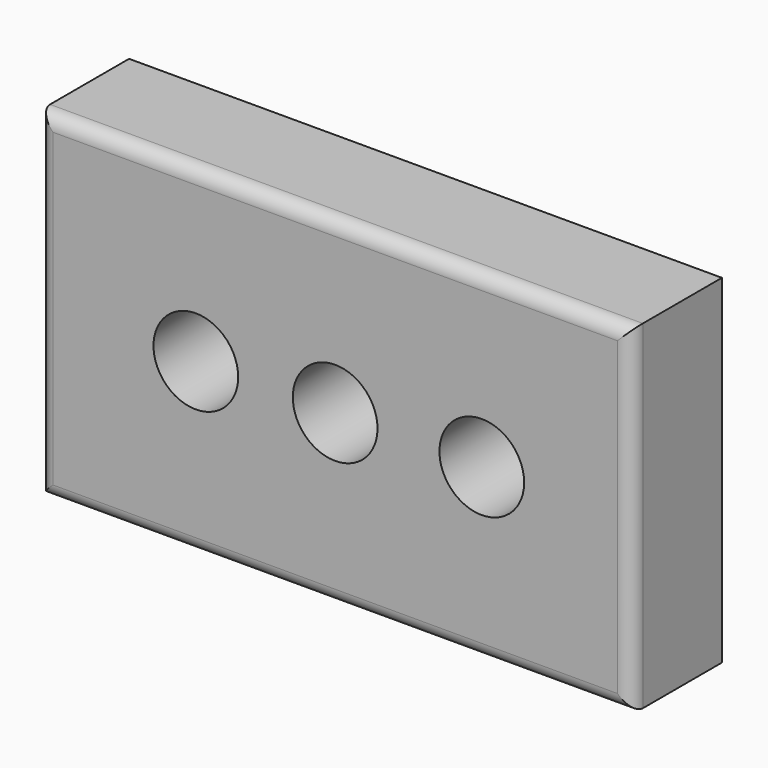
from build123d import *

# Parameters (mm, degrees)
F0_W     = 266.7
F0_H     = 152.4
F1_DEPTH = 50.8
F2_R     = 19.05
F3_DEPTH = 50.8
F5_R     = 19.05
F6_DEPTH = 50.8
F7_R     = 6.35


with BuildPart() as f1:
    # F0 (on Front) → F1 (new body)
    with BuildSketch(Plane.XZ):
        Rectangle(F0_W, F0_H)
    extrude(amount=F1_DEPTH)

    # F2 (on face) → F3 (cut)
    with BuildSketch(Plane.XZ.offset(50.8)):
        Circle(F2_R)
    extrude(amount=-F3_DEPTH, mode=Mode.SUBTRACT)

    # F5 (on face) → F6 (cut)
    with BuildSketch(Plane.XZ.offset(50.8)):
        with Locations((65.963149, 0)):
            Circle(F5_R)
        with Locations((-62.680647, 0)):
            Circle(F5_R)
    extrude(amount=-F6_DEPTH, mode=Mode.SUBTRACT)

    # F7
    f7_edges = [f1.edges().sort_by_distance(p)[0] for p in [
        (0, -50.8, 76.2),
        (-133.35, -50.8, 0),
        (133.35, -50.8, 0),
        (0, -50.8, -76.2),
    ]]
    fillet(f7_edges, radius=F7_R)


solid = f1.part
